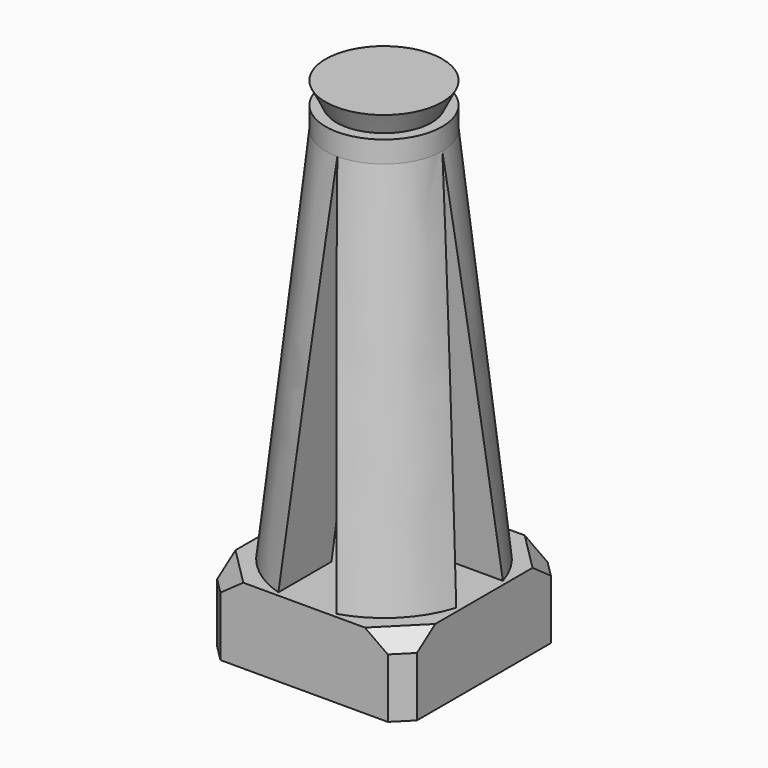
from build123d import *

# Parameters (mm, degrees)
SKETCH_W           = 18.5
SKETCH_H           = 18.5
SKETCH_R           = 8.15
PAD_DEPTH          = 4
SKETCH001_W        = 18.5
SKETCH001_H        = 18.5
PAD001_DEPTH       = 3
SKETCH002_R        = 9.25
SKETCH003_R        = 5.4
SKETCH005_R        = 5.4
PAD002_DEPTH       = 2
CHAMFER_SIZE       = 1.5
CHAMFER001_SIZE    = 1.5
POCKET_DEPTH       = 120.882639
POLARPATTERN_COUNT = 4
SKETCH007_R        = 4.4
SKETCH008_R        = 5.4


with BuildPart() as part:
    # Sketch → Pad (new body)
    with BuildSketch(Plane.XY):
        Rectangle(SKETCH_W, SKETCH_H)
        Circle(SKETCH_R, mode=Mode.SUBTRACT)
    extrude(amount=PAD_DEPTH)

    # Sketch001 (on Face7 of Pad) → Pad001 (join)
    with BuildSketch(Plane.XY.offset(4)):
        Rectangle(SKETCH001_W, SKETCH001_H)
    extrude(amount=PAD001_DEPTH)

    # Sketch002 (on Face10 of Pad001) → AdditiveLoft section 0
    with BuildSketch(Plane.XY.offset(7)):
        Circle(SKETCH002_R)
    # Sketch003 (on Face10 of Pad001) → AdditiveLoft section 1
    with BuildSketch(Plane.XY.offset(42)):
        Circle(SKETCH003_R)
    loft()

    # Sketch005 (on Face17 of AdditiveLoft) → Pad002 (join)
    with BuildSketch(Plane.XY.offset(42)):
        Circle(SKETCH005_R)
    extrude(amount=PAD002_DEPTH)

    # Chamfer
    chamfer_edges = [part.edges().sort_by_distance(p)[0] for p in [
        (-9.25, -9.25, 5.5),
        (-9.25, -9.25, 2),
        (9.25, -9.25, 5.5),
        (9.25, -9.25, 2),
        (9.25, 9.25, 2),
        (9.25, 9.25, 5.5),
        (-9.25, 9.25, 5.5),
        (-9.25, 9.25, 2),
    ]]
    chamfer(chamfer_edges, length=CHAMFER_SIZE)

    # Chamfer001
    chamfer001_edges = [part.edges().sort_by_distance(p)[0] for p in [
        (8.5, -8.5, 7),
        (-8.5, -8.5, 7),
        (-8.5, 8.5, 7),
        (8.5, 8.5, 7),
    ]]
    chamfer(chamfer001_edges, length=CHAMFER001_SIZE)

    # Sketch006 (on Face19 of Chamfer001) → Pocket (cut, through all)
    with BuildSketch(Plane.YZ.offset(9.25)):
        Polygon((0, 42), (-2.7, 7), (2.7, 7), align=None)
    pocket = extrude(amount=-POCKET_DEPTH, mode=Mode.SUBTRACT)

    # PolarPattern: Pocket ×4 about axis
    polarpattern_axis = Axis((0, 0, 0), (0, 0, 1))
    for i in range(1, POLARPATTERN_COUNT):
        add(pocket.rotate(polarpattern_axis, i * 360 / POLARPATTERN_COUNT), mode=Mode.SUBTRACT)

    # Sketch007 (on Face47 of PolarPattern) → AdditiveLoft001 section 0
    with BuildSketch(Plane.XY.offset(44)):
        Circle(SKETCH007_R)
    # Sketch008 → AdditiveLoft001 section 1
    with BuildSketch(Plane.XY.offset(46)):
        Circle(SKETCH008_R)
    loft()


solid = part.part
